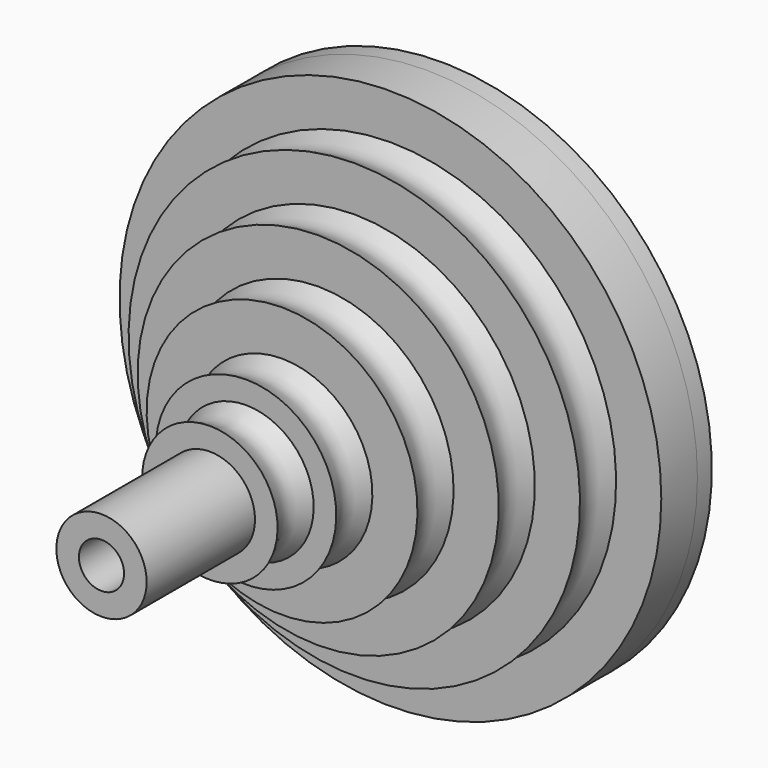
from build123d import *

# Parameters (mm, degrees)
F0_R      = 30
F0_R_2    = 20
F1_DEPTH  = 5
F2_R      = 25
F2_R_2    = 20
F2_R_3    = 15
F3_DEPTH  = 5
F4_R      = 20
F4_R_2    = 15
F4_R_3    = 10
F5_DEPTH  = 5
F6_R      = 15
F6_R_2    = 10
F6_R_3    = 5
F7_DEPTH  = 5
F8_R      = 10
F8_R_2    = 5
F9_DEPTH  = 5
F13_R     = 7.5
F13_R_2   = 5
F13_R_3   = 2.5
F14_DEPTH = 5
F15_R     = 5
F15_R_2   = 2.5
F16_DEPTH = 15
F19_R     = 30
F19_R_2   = 2.5
F20_DEPTH = 2


with BuildPart() as f1:
    # F0 (on Front) → F1 (new body)
    with BuildSketch(Plane.XZ):
        Circle(F0_R)
        Circle(F0_R_2, mode=Mode.SUBTRACT)
    extrude(amount=F1_DEPTH)

    # F2 (on face) → F3 (join)
    with BuildSketch(Plane.XZ.offset(5)):
        Circle(F2_R)
        Circle(F2_R_2, mode=Mode.SUBTRACT)
        Circle(F2_R_2)
        Circle(F2_R_3, mode=Mode.SUBTRACT)
    extrude(amount=F3_DEPTH)

    # F4 (on face) → F5 (join)
    with BuildSketch(Plane.XZ.offset(10)):
        Circle(F4_R)
        Circle(F4_R_2, mode=Mode.SUBTRACT)
        Circle(F4_R_2)
        Circle(F4_R_3, mode=Mode.SUBTRACT)
    extrude(amount=F5_DEPTH)

    # F6 (on face) → F7 (join)
    with BuildSketch(Plane.XZ.offset(15)):
        Circle(F6_R)
        Circle(F6_R_2, mode=Mode.SUBTRACT)
        Circle(F6_R_2)
        Circle(F6_R_3, mode=Mode.SUBTRACT)
    extrude(amount=F7_DEPTH)

    # F8 (on face) → F9 (join)
    with BuildSketch(Plane.XZ.offset(20)):
        Circle(F8_R)
        Circle(F8_R_2, mode=Mode.SUBTRACT)
    extrude(amount=F9_DEPTH)

    # F10 (on Right) → F12 (revolve, cut)
    with BuildSketch(Plane.YZ):
        with BuildLine():
            add(Edge.make_bspline(
                [(-5, 25), (-5.8326505031, 24.531605213), (-7.4963397946, 23.693799982), (-9.1746699077, 24.5308889348), (-10, 25)],
                knots=[0, 0, 0, 0, 0.5, 1, 1, 1, 1], degree=3))
            Line((-5, 25), (-10, 25))
        make_face()
        with BuildLine():
            add(Edge.make_bspline(
                [(-10, 20), (-10.8326505031, 19.531605213), (-12.4963397946, 18.693799982), (-14.1746699077, 19.5308889348), (-15, 20)],
                knots=[0, 0, 0, 0, 0.5, 1, 1, 1, 1], degree=3))
            Line((-10, 20), (-15, 20))
        make_face()
        with BuildLine():
            add(Edge.make_bspline(
                [(-15, 15), (-15.8326505031, 14.531605213), (-17.4963397946, 13.693799982), (-19.1746699077, 14.5308889348), (-20, 15)],
                knots=[0, 0, 0, 0, 0.5, 1, 1, 1, 1], degree=3))
            Line((-15, 15), (-20, 15))
        make_face()
        with BuildLine():
            add(Edge.make_bspline(
                [(-20, 10), (-20.8326505031, 9.531605213), (-22.4963397946, 8.693799982), (-24.1746699077, 9.5308889348), (-25, 10)],
                knots=[0, 0, 0, 0, 0.5, 1, 1, 1, 1], degree=3))
            Line((-20, 10), (-25, 10))
        make_face()
    revolve(axis=Axis((0, 20.6356514245, 0), (0, 1, 0)), mode=Mode.SUBTRACT)

    # F13 (on face) → F14 (join)
    with BuildSketch(Plane.XZ.offset(25)):
        Circle(F13_R)
        Circle(F13_R_2, mode=Mode.SUBTRACT)
        Circle(F13_R_2)
        Circle(F13_R_3, mode=Mode.SUBTRACT)
    extrude(amount=F14_DEPTH)

    # F15 (on face) → F16 (join)
    with BuildSketch(Plane.XZ.offset(30)):
        Circle(F15_R)
        Circle(F15_R_2, mode=Mode.SUBTRACT)
    extrude(amount=F16_DEPTH)

    # F17 (on Right) → F18 (revolve, cut)
    with BuildSketch(Plane.YZ):
        with BuildLine():
            add(Edge.make_bspline(
                [(-25, 7.5), (-25.8326505031, 7.031605213), (-27.4963397946, 6.193799982), (-29.1746699077, 7.0308889348), (-30, 7.5)],
                knots=[0, 0, 0, 0, 0.5, 1, 1, 1, 1], degree=3))
            Line((-25, 7.5), (-30, 7.5))
        make_face()
    revolve(axis=Axis((0, -30.2864443511, 0), (0, -1, 0)), mode=Mode.SUBTRACT)

    # F19 (on face) → F20 (join)
    with BuildSketch(Plane(origin=(0, 0, 0), x_dir=(-1, 0, 0), z_dir=(0, 1, 0))):
        Circle(F19_R)
        Circle(F19_R_2, mode=Mode.SUBTRACT)
    extrude(amount=F20_DEPTH)


solid = f1.part
